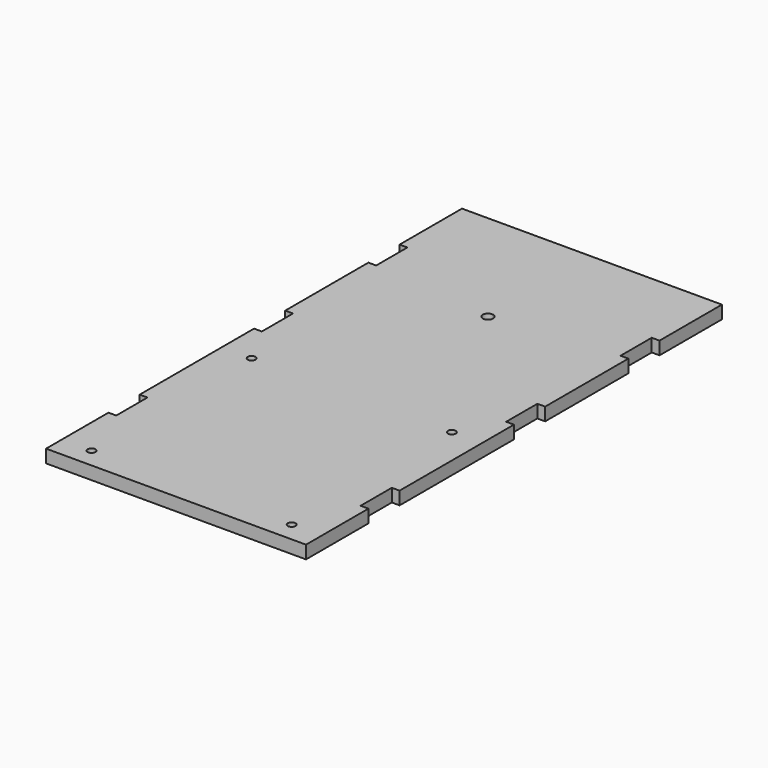
from build123d import *

# Parameters (mm, degrees)
F0_R     = 1.5
F0_R_2   = 2
F1_DEPTH = 5


with BuildPart() as f1:
    # F0 (on Top) → F1 (new body)
    with BuildSketch(Plane.XY):
        Polygon((57.630704, 133.314957), (-42.369296, 133.314957), (-42.369296, 103.314957), (-39.369296, 103.314957), (-39.369296, 88.314957), (-42.369296, 88.314957), (-42.369296, 48.314957), (-39.369296, 48.314957), (-39.369296, 33.314957), (-42.369296, 33.314957), (-42.369296, -21.685043), (-39.369296, -21.685043), (-39.369296, -36.685043), (-42.369296, -36.685043), (-42.369296, -66.685043), (57.630704, -66.685043), (57.630704, -36.685043), (54.630704, -36.685043), (54.630704, -21.685043), (57.630704, -21.685043), (57.630704, 33.314957), (54.630704, 33.314957), (54.630704, 48.314957), (57.630704, 48.314957), (57.630704, 88.314957), (54.630704, 88.314957), (54.630704, 103.314957), (57.630704, 103.314957), align=None)
        with Locations((-30.869296, -59.185043)):
            Circle(F0_R, mode=Mode.SUBTRACT)
        with Locations((-30.869296, 17.814957)):
            Circle(F0_R, mode=Mode.SUBTRACT)
        with Locations((46.130704, -59.185043)):
            Circle(F0_R, mode=Mode.SUBTRACT)
        with Locations((46.130704, 17.814957)):
            Circle(F0_R, mode=Mode.SUBTRACT)
        with Locations((7.630704, 83.314957)):
            Circle(F0_R_2, mode=Mode.SUBTRACT)
    extrude(amount=F1_DEPTH)


solid = f1.part
